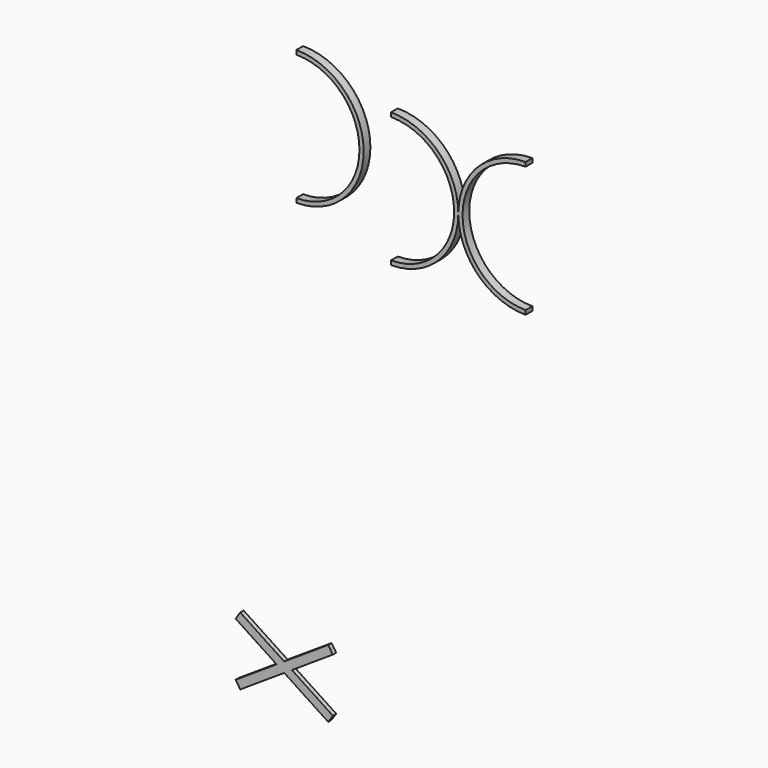
from build123d import *

# Parameters (mm, degrees)
F1_DEPTH = 50.8
F3_DEPTH = 50.8
F4_DEPTH = 25.4


with BuildPart() as f1:
    # F0 (on Front) → F1 (new body)
    with BuildSketch(Plane.XZ):
        with BuildLine():
            ThreePointArc((15.568727, -106.370451), (-104.596003, 178.936502), (-390.843974, 296.84205))
            Line((-390.843974, 296.84205), (-390.843974, 271.41665))
            ThreePointArc((-390.843974, 271.41665), (-9.843974, -109.58335), (-390.843974, -490.58335))
            Line((-390.843974, -490.58335), (-390.843974, -515.98335))
            Line((-390.843974, -515.98335), (-390.843974, -516.00875))
            ThreePointArc((-390.843974, -516.00875), (-104.596003, -398.103202), (15.568727, -112.796249))
            ThreePointArc((15.568727, -112.796249), (15.556026, -109.58335), (15.568727, -106.370451))
        make_face()
        with BuildLine():
            ThreePointArc((421.956026, 296.81665), (135.726016, 178.918541), (15.568727, -106.370451))
            ThreePointArc((15.568727, -106.370451), (15.556026, -109.58335), (15.568727, -112.796249))
            ThreePointArc((15.568727, -112.796249), (135.726016, -398.085241), (421.956026, -515.98335))
            Line((421.956026, -515.98335), (421.956026, -490.58335))
            ThreePointArc((421.956026, -490.58335), (40.956026, -109.58335), (421.956026, 271.41665))
            Line((421.956026, 271.41665), (421.956026, 296.81665))
        make_face()
    extrude(amount=F1_DEPTH)


with BuildPart() as f3:
    # F2 (on Front) → F3 (new body)
    with BuildSketch(Plane.XZ):
        with BuildLine():
            Line((-962.683797, -345.16645), (-962.683797, -370.56645))
            ThreePointArc((-962.683797, -370.56645), (-556.283797, 35.83355), (-962.683797, 442.23355))
            Line((-962.683797, 442.23355), (-962.683797, 416.83355))
            ThreePointArc((-962.683797, 416.83355), (-581.683797, 35.83355), (-962.683797, -345.16645))
        make_face()
    extrude(amount=F3_DEPTH)


with BuildPart() as f4:
    # F2 (on Front) → F4 (new body)
    with BuildSketch(Plane.XZ):
        Polygon((-783.188568, -2735.367866), (-797.124442, -2714.132249), (-811.060315, -2692.896632), (-1076.630761, -2867.177237), (-1342.198078, -2692.898686), (-1356.133951, -2714.134303), (-1370.069825, -2735.369919), (-1122.92567, -2897.558271), (-1370.069825, -3059.746623), (-1356.133951, -3080.98224), (-1342.198078, -3102.217856), (-1076.630761, -2927.939305), (-811.063445, -3102.217856), (-797.127571, -3080.98224), (-783.191698, -3059.746623), (-1030.335852, -2897.558271), align=None)
    extrude(amount=-F4_DEPTH)


solid = Compound([f1.part, f3.part, f4.part])
